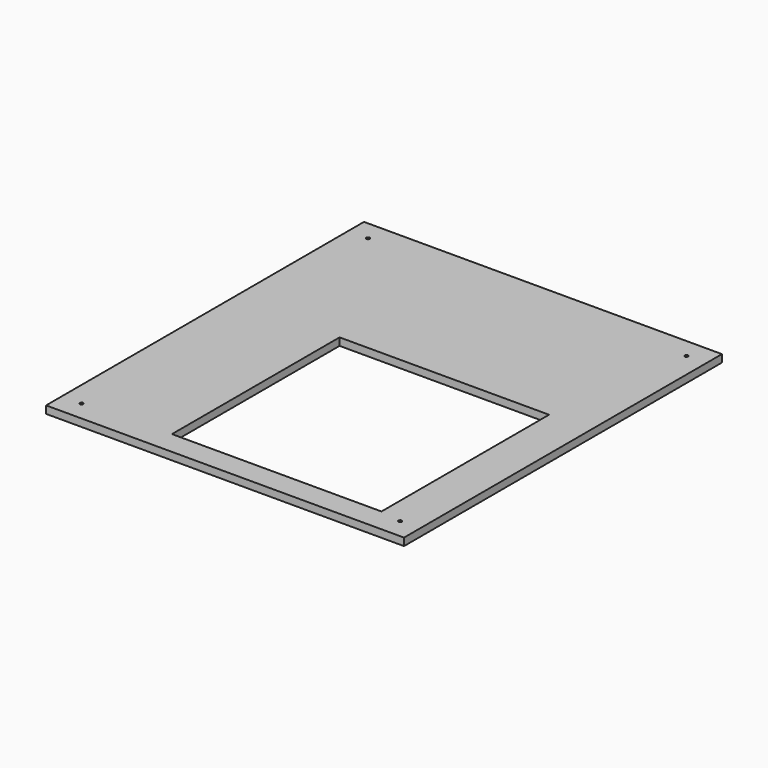
from build123d import *

# Parameters (mm, degrees)
SKETCH_W   = 381
SKETCH_H   = 423
SKETCH_R   = 1.8
SKETCH_W_2 = 223
SKETCH_H_2 = 223
PAD_DEPTH  = 8


with BuildPart() as part:
    # Sketch → Pad (new body)
    with BuildSketch(Plane.XY):
        with Locations((-190.5, 211.5)):
            Rectangle(SKETCH_W, SKETCH_H)
        with Locations((-360, 402)):
            Circle(SKETCH_R, mode=Mode.SUBTRACT)
        with Locations((-21, 402)):
            Circle(SKETCH_R, mode=Mode.SUBTRACT)
        with Locations((-360, 21)):
            Circle(SKETCH_R, mode=Mode.SUBTRACT)
        with Locations((-21, 21)):
            Circle(SKETCH_R, mode=Mode.SUBTRACT)
        with Locations((-155.5, 136.5)):
            Rectangle(SKETCH_W_2, SKETCH_H_2, mode=Mode.SUBTRACT)
    extrude(amount=PAD_DEPTH)


solid = part.part
